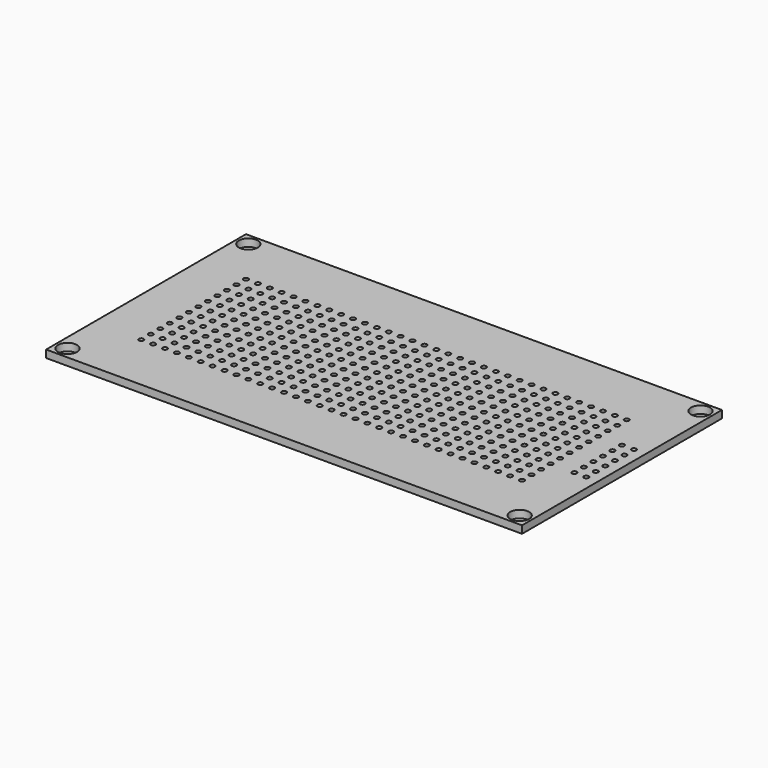
from build123d import *

# Parameters (mm, degrees)
F0_W     = 101.6
F0_H     = 53.34
F0_R     = 2.032
F0_R_2   = 0.508
F1_DEPTH = 1.6


with BuildPart() as f1:
    # F0 (on Top) → F1 (new body)
    with BuildSketch(Plane.XY):
        Rectangle(F0_W, F0_H)
        with Locations((-48.26, -24.13)):
            Circle(F0_R, mode=Mode.SUBTRACT)
        with Locations((-40.64, -13.97)):
            Circle(F0_R_2, mode=Mode.SUBTRACT)
        with Locations((-38.1, -13.97)):
            Circle(F0_R_2, mode=Mode.SUBTRACT)
        with Locations((-35.56, -13.97)):
            Circle(F0_R_2, mode=Mode.SUBTRACT)
        with Locations((-33.02, -13.97)):
            Circle(F0_R_2, mode=Mode.SUBTRACT)
        with Locations((-30.48, -13.97)):
            Circle(F0_R_2, mode=Mode.SUBTRACT)
        with Locations((-27.94, -13.97)):
            Circle(F0_R_2, mode=Mode.SUBTRACT)
        with Locations((-25.4, -13.97)):
            Circle(F0_R_2, mode=Mode.SUBTRACT)
        with Locations((-22.86, -13.97)):
            Circle(F0_R_2, mode=Mode.SUBTRACT)
        with Locations((-20.32, -13.97)):
            Circle(F0_R_2, mode=Mode.SUBTRACT)
        with Locations((-17.78, -13.97)):
            Circle(F0_R_2, mode=Mode.SUBTRACT)
        with Locations((-15.24, -13.97)):
            Circle(F0_R_2, mode=Mode.SUBTRACT)
        with Locations((-12.7, -13.97)):
            Circle(F0_R_2, mode=Mode.SUBTRACT)
        with Locations((-10.16, -13.97)):
            Circle(F0_R_2, mode=Mode.SUBTRACT)
        with Locations((-7.62, -13.97)):
            Circle(F0_R_2, mode=Mode.SUBTRACT)
        with Locations((-5.08, -13.97)):
            Circle(F0_R_2, mode=Mode.SUBTRACT)
        with Locations((-2.54, -13.97)):
            Circle(F0_R_2, mode=Mode.SUBTRACT)
        with Locations((0, -13.97)):
            Circle(F0_R_2, mode=Mode.SUBTRACT)
        with Locations((-40.64, -11.43)):
            Circle(F0_R_2, mode=Mode.SUBTRACT)
        with Locations((-38.1, -11.43)):
            Circle(F0_R_2, mode=Mode.SUBTRACT)
        with Locations((-40.64, -8.89)):
            Circle(F0_R_2, mode=Mode.SUBTRACT)
        with Locations((-38.1, -8.89)):
            Circle(F0_R_2, mode=Mode.SUBTRACT)
        with Locations((-35.56, -11.43)):
            Circle(F0_R_2, mode=Mode.SUBTRACT)
        with Locations((-33.02, -11.43)):
            Circle(F0_R_2, mode=Mode.SUBTRACT)
        with Locations((-30.48, -11.43)):
            Circle(F0_R_2, mode=Mode.SUBTRACT)
        with Locations((-27.94, -11.43)):
            Circle(F0_R_2, mode=Mode.SUBTRACT)
        with Locations((-25.4, -11.43)):
            Circle(F0_R_2, mode=Mode.SUBTRACT)
        with Locations((-35.56, -8.89)):
            Circle(F0_R_2, mode=Mode.SUBTRACT)
        with Locations((-33.02, -8.89)):
            Circle(F0_R_2, mode=Mode.SUBTRACT)
        with Locations((-30.48, -8.89)):
            Circle(F0_R_2, mode=Mode.SUBTRACT)
        with Locations((-27.94, -8.89)):
            Circle(F0_R_2, mode=Mode.SUBTRACT)
        with Locations((-25.4, -8.89)):
            Circle(F0_R_2, mode=Mode.SUBTRACT)
        with Locations((-40.64, -6.35)):
            Circle(F0_R_2, mode=Mode.SUBTRACT)
        with Locations((-38.1, -6.35)):
            Circle(F0_R_2, mode=Mode.SUBTRACT)
        with Locations((-40.64, -3.81)):
            Circle(F0_R_2, mode=Mode.SUBTRACT)
        with Locations((-38.1, -3.81)):
            Circle(F0_R_2, mode=Mode.SUBTRACT)
        with Locations((-40.64, -1.27)):
            Circle(F0_R_2, mode=Mode.SUBTRACT)
        with Locations((-38.1, -1.27)):
            Circle(F0_R_2, mode=Mode.SUBTRACT)
        with Locations((-35.56, -6.35)):
            Circle(F0_R_2, mode=Mode.SUBTRACT)
        with Locations((-33.02, -6.35)):
            Circle(F0_R_2, mode=Mode.SUBTRACT)
        with Locations((-35.56, -3.81)):
            Circle(F0_R_2, mode=Mode.SUBTRACT)
        with Locations((-33.02, -3.81)):
            Circle(F0_R_2, mode=Mode.SUBTRACT)
        with Locations((-30.48, -6.35)):
            Circle(F0_R_2, mode=Mode.SUBTRACT)
        with Locations((-27.94, -6.35)):
            Circle(F0_R_2, mode=Mode.SUBTRACT)
        with Locations((-25.4, -6.35)):
            Circle(F0_R_2, mode=Mode.SUBTRACT)
        with Locations((-30.48, -3.81)):
            Circle(F0_R_2, mode=Mode.SUBTRACT)
        with Locations((-27.94, -3.81)):
            Circle(F0_R_2, mode=Mode.SUBTRACT)
        with Locations((-25.4, -3.81)):
            Circle(F0_R_2, mode=Mode.SUBTRACT)
        with Locations((-35.56, -1.27)):
            Circle(F0_R_2, mode=Mode.SUBTRACT)
        with Locations((-33.02, -1.27)):
            Circle(F0_R_2, mode=Mode.SUBTRACT)
        with Locations((-30.48, -1.27)):
            Circle(F0_R_2, mode=Mode.SUBTRACT)
        with Locations((-27.94, -1.27)):
            Circle(F0_R_2, mode=Mode.SUBTRACT)
        with Locations((-25.4, -1.27)):
            Circle(F0_R_2, mode=Mode.SUBTRACT)
        with Locations((-22.86, -11.43)):
            Circle(F0_R_2, mode=Mode.SUBTRACT)
        with Locations((-20.32, -11.43)):
            Circle(F0_R_2, mode=Mode.SUBTRACT)
        with Locations((-17.78, -11.43)):
            Circle(F0_R_2, mode=Mode.SUBTRACT)
        with Locations((-15.24, -11.43)):
            Circle(F0_R_2, mode=Mode.SUBTRACT)
        with Locations((-12.7, -11.43)):
            Circle(F0_R_2, mode=Mode.SUBTRACT)
        with Locations((-22.86, -8.89)):
            Circle(F0_R_2, mode=Mode.SUBTRACT)
        with Locations((-20.32, -8.89)):
            Circle(F0_R_2, mode=Mode.SUBTRACT)
        with Locations((-17.78, -8.89)):
            Circle(F0_R_2, mode=Mode.SUBTRACT)
        with Locations((-15.24, -8.89)):
            Circle(F0_R_2, mode=Mode.SUBTRACT)
        with Locations((-12.7, -8.89)):
            Circle(F0_R_2, mode=Mode.SUBTRACT)
        with Locations((-10.16, -11.43)):
            Circle(F0_R_2, mode=Mode.SUBTRACT)
        with Locations((-7.62, -11.43)):
            Circle(F0_R_2, mode=Mode.SUBTRACT)
        with Locations((-5.08, -11.43)):
            Circle(F0_R_2, mode=Mode.SUBTRACT)
        with Locations((-2.54, -11.43)):
            Circle(F0_R_2, mode=Mode.SUBTRACT)
        with Locations((0, -11.43)):
            Circle(F0_R_2, mode=Mode.SUBTRACT)
        with Locations((-10.16, -8.89)):
            Circle(F0_R_2, mode=Mode.SUBTRACT)
        with Locations((-7.62, -8.89)):
            Circle(F0_R_2, mode=Mode.SUBTRACT)
        with Locations((-5.08, -8.89)):
            Circle(F0_R_2, mode=Mode.SUBTRACT)
        with Locations((-2.54, -8.89)):
            Circle(F0_R_2, mode=Mode.SUBTRACT)
        with Locations((0, -8.89)):
            Circle(F0_R_2, mode=Mode.SUBTRACT)
        with Locations((-22.86, -6.35)):
            Circle(F0_R_2, mode=Mode.SUBTRACT)
        with Locations((-20.32, -6.35)):
            Circle(F0_R_2, mode=Mode.SUBTRACT)
        with Locations((-22.86, -3.81)):
            Circle(F0_R_2, mode=Mode.SUBTRACT)
        with Locations((-20.32, -3.81)):
            Circle(F0_R_2, mode=Mode.SUBTRACT)
        with Locations((-17.78, -6.35)):
            Circle(F0_R_2, mode=Mode.SUBTRACT)
        with Locations((-15.24, -6.35)):
            Circle(F0_R_2, mode=Mode.SUBTRACT)
        with Locations((-12.7, -6.35)):
            Circle(F0_R_2, mode=Mode.SUBTRACT)
        with Locations((-17.78, -3.81)):
            Circle(F0_R_2, mode=Mode.SUBTRACT)
        with Locations((-15.24, -3.81)):
            Circle(F0_R_2, mode=Mode.SUBTRACT)
        with Locations((-12.7, -3.81)):
            Circle(F0_R_2, mode=Mode.SUBTRACT)
        with Locations((-22.86, -1.27)):
            Circle(F0_R_2, mode=Mode.SUBTRACT)
        with Locations((-20.32, -1.27)):
            Circle(F0_R_2, mode=Mode.SUBTRACT)
        with Locations((-17.78, -1.27)):
            Circle(F0_R_2, mode=Mode.SUBTRACT)
        with Locations((-15.24, -1.27)):
            Circle(F0_R_2, mode=Mode.SUBTRACT)
        with Locations((-12.7, -1.27)):
            Circle(F0_R_2, mode=Mode.SUBTRACT)
        with Locations((-10.16, -6.35)):
            Circle(F0_R_2, mode=Mode.SUBTRACT)
        with Locations((-7.62, -6.35)):
            Circle(F0_R_2, mode=Mode.SUBTRACT)
        with Locations((-10.16, -3.81)):
            Circle(F0_R_2, mode=Mode.SUBTRACT)
        with Locations((-7.62, -3.81)):
            Circle(F0_R_2, mode=Mode.SUBTRACT)
        with Locations((-5.08, -6.35)):
            Circle(F0_R_2, mode=Mode.SUBTRACT)
        with Locations((-2.54, -6.35)):
            Circle(F0_R_2, mode=Mode.SUBTRACT)
        with Locations((0, -6.35)):
            Circle(F0_R_2, mode=Mode.SUBTRACT)
        with Locations((-5.08, -3.81)):
            Circle(F0_R_2, mode=Mode.SUBTRACT)
        with Locations((-2.54, -3.81)):
            Circle(F0_R_2, mode=Mode.SUBTRACT)
        with Locations((0, -3.81)):
            Circle(F0_R_2, mode=Mode.SUBTRACT)
        with Locations((-10.16, -1.27)):
            Circle(F0_R_2, mode=Mode.SUBTRACT)
        with Locations((-7.62, -1.27)):
            Circle(F0_R_2, mode=Mode.SUBTRACT)
        with Locations((-5.08, -1.27)):
            Circle(F0_R_2, mode=Mode.SUBTRACT)
        with Locations((-2.54, -1.27)):
            Circle(F0_R_2, mode=Mode.SUBTRACT)
        with Locations((0, -1.27)):
            Circle(F0_R_2, mode=Mode.SUBTRACT)
        with Locations((2.54, -13.97)):
            Circle(F0_R_2, mode=Mode.SUBTRACT)
        with Locations((5.08, -13.97)):
            Circle(F0_R_2, mode=Mode.SUBTRACT)
        with Locations((7.62, -13.97)):
            Circle(F0_R_2, mode=Mode.SUBTRACT)
        with Locations((10.16, -13.97)):
            Circle(F0_R_2, mode=Mode.SUBTRACT)
        with Locations((12.7, -13.97)):
            Circle(F0_R_2, mode=Mode.SUBTRACT)
        with Locations((15.24, -13.97)):
            Circle(F0_R_2, mode=Mode.SUBTRACT)
        with Locations((17.78, -13.97)):
            Circle(F0_R_2, mode=Mode.SUBTRACT)
        with Locations((20.32, -13.97)):
            Circle(F0_R_2, mode=Mode.SUBTRACT)
        with Locations((22.86, -13.97)):
            Circle(F0_R_2, mode=Mode.SUBTRACT)
        with Locations((25.4, -13.97)):
            Circle(F0_R_2, mode=Mode.SUBTRACT)
        with Locations((48.26, -24.13)):
            Circle(F0_R, mode=Mode.SUBTRACT)
        with Locations((27.94, -13.97)):
            Circle(F0_R_2, mode=Mode.SUBTRACT)
        with Locations((30.48, -13.97)):
            Circle(F0_R_2, mode=Mode.SUBTRACT)
        with Locations((33.02, -13.97)):
            Circle(F0_R_2, mode=Mode.SUBTRACT)
        with Locations((35.56, -13.97)):
            Circle(F0_R_2, mode=Mode.SUBTRACT)
        with Locations((38.1, -13.97)):
            Circle(F0_R_2, mode=Mode.SUBTRACT)
        with Locations((40.64, -13.97)):
            Circle(F0_R_2, mode=Mode.SUBTRACT)
        with Locations((2.54, -11.43)):
            Circle(F0_R_2, mode=Mode.SUBTRACT)
        with Locations((5.08, -11.43)):
            Circle(F0_R_2, mode=Mode.SUBTRACT)
        with Locations((7.62, -11.43)):
            Circle(F0_R_2, mode=Mode.SUBTRACT)
        with Locations((10.16, -11.43)):
            Circle(F0_R_2, mode=Mode.SUBTRACT)
        with Locations((2.54, -8.89)):
            Circle(F0_R_2, mode=Mode.SUBTRACT)
        with Locations((5.08, -8.89)):
            Circle(F0_R_2, mode=Mode.SUBTRACT)
        with Locations((7.62, -8.89)):
            Circle(F0_R_2, mode=Mode.SUBTRACT)
        with Locations((10.16, -8.89)):
            Circle(F0_R_2, mode=Mode.SUBTRACT)
        with Locations((12.7, -11.43)):
            Circle(F0_R_2, mode=Mode.SUBTRACT)
        with Locations((15.24, -11.43)):
            Circle(F0_R_2, mode=Mode.SUBTRACT)
        with Locations((17.78, -11.43)):
            Circle(F0_R_2, mode=Mode.SUBTRACT)
        with Locations((20.32, -11.43)):
            Circle(F0_R_2, mode=Mode.SUBTRACT)
        with Locations((22.86, -11.43)):
            Circle(F0_R_2, mode=Mode.SUBTRACT)
        with Locations((25.4, -11.43)):
            Circle(F0_R_2, mode=Mode.SUBTRACT)
        with Locations((12.7, -8.89)):
            Circle(F0_R_2, mode=Mode.SUBTRACT)
        with Locations((15.24, -8.89)):
            Circle(F0_R_2, mode=Mode.SUBTRACT)
        with Locations((17.78, -8.89)):
            Circle(F0_R_2, mode=Mode.SUBTRACT)
        with Locations((20.32, -8.89)):
            Circle(F0_R_2, mode=Mode.SUBTRACT)
        with Locations((22.86, -8.89)):
            Circle(F0_R_2, mode=Mode.SUBTRACT)
        with Locations((25.4, -8.89)):
            Circle(F0_R_2, mode=Mode.SUBTRACT)
        with Locations((2.54, -6.35)):
            Circle(F0_R_2, mode=Mode.SUBTRACT)
        with Locations((5.08, -6.35)):
            Circle(F0_R_2, mode=Mode.SUBTRACT)
        with Locations((2.54, -3.81)):
            Circle(F0_R_2, mode=Mode.SUBTRACT)
        with Locations((5.08, -3.81)):
            Circle(F0_R_2, mode=Mode.SUBTRACT)
        with Locations((7.62, -6.35)):
            Circle(F0_R_2, mode=Mode.SUBTRACT)
        with Locations((10.16, -6.35)):
            Circle(F0_R_2, mode=Mode.SUBTRACT)
        with Locations((7.62, -3.81)):
            Circle(F0_R_2, mode=Mode.SUBTRACT)
        with Locations((10.16, -3.81)):
            Circle(F0_R_2, mode=Mode.SUBTRACT)
        with Locations((2.54, -1.27)):
            Circle(F0_R_2, mode=Mode.SUBTRACT)
        with Locations((5.08, -1.27)):
            Circle(F0_R_2, mode=Mode.SUBTRACT)
        with Locations((7.62, -1.27)):
            Circle(F0_R_2, mode=Mode.SUBTRACT)
        with Locations((10.16, -1.27)):
            Circle(F0_R_2, mode=Mode.SUBTRACT)
        with Locations((12.7, -6.35)):
            Circle(F0_R_2, mode=Mode.SUBTRACT)
        with Locations((15.24, -6.35)):
            Circle(F0_R_2, mode=Mode.SUBTRACT)
        with Locations((17.78, -6.35)):
            Circle(F0_R_2, mode=Mode.SUBTRACT)
        with Locations((12.7, -3.81)):
            Circle(F0_R_2, mode=Mode.SUBTRACT)
        with Locations((15.24, -3.81)):
            Circle(F0_R_2, mode=Mode.SUBTRACT)
        with Locations((17.78, -3.81)):
            Circle(F0_R_2, mode=Mode.SUBTRACT)
        with Locations((20.32, -6.35)):
            Circle(F0_R_2, mode=Mode.SUBTRACT)
        with Locations((22.86, -6.35)):
            Circle(F0_R_2, mode=Mode.SUBTRACT)
        with Locations((25.4, -6.35)):
            Circle(F0_R_2, mode=Mode.SUBTRACT)
        with Locations((20.32, -3.81)):
            Circle(F0_R_2, mode=Mode.SUBTRACT)
        with Locations((22.86, -3.81)):
            Circle(F0_R_2, mode=Mode.SUBTRACT)
        with Locations((25.4, -3.81)):
            Circle(F0_R_2, mode=Mode.SUBTRACT)
        with Locations((12.7, -1.27)):
            Circle(F0_R_2, mode=Mode.SUBTRACT)
        with Locations((15.24, -1.27)):
            Circle(F0_R_2, mode=Mode.SUBTRACT)
        with Locations((17.78, -1.27)):
            Circle(F0_R_2, mode=Mode.SUBTRACT)
        with Locations((20.32, -1.27)):
            Circle(F0_R_2, mode=Mode.SUBTRACT)
        with Locations((22.86, -1.27)):
            Circle(F0_R_2, mode=Mode.SUBTRACT)
        with Locations((25.4, -1.27)):
            Circle(F0_R_2, mode=Mode.SUBTRACT)
        with Locations((27.94, -11.43)):
            Circle(F0_R_2, mode=Mode.SUBTRACT)
        with Locations((30.48, -11.43)):
            Circle(F0_R_2, mode=Mode.SUBTRACT)
        with Locations((33.02, -11.43)):
            Circle(F0_R_2, mode=Mode.SUBTRACT)
        with Locations((35.56, -11.43)):
            Circle(F0_R_2, mode=Mode.SUBTRACT)
        with Locations((27.94, -8.89)):
            Circle(F0_R_2, mode=Mode.SUBTRACT)
        with Locations((30.48, -8.89)):
            Circle(F0_R_2, mode=Mode.SUBTRACT)
        with Locations((33.02, -8.89)):
            Circle(F0_R_2, mode=Mode.SUBTRACT)
        with Locations((35.56, -8.89)):
            Circle(F0_R_2, mode=Mode.SUBTRACT)
        with Locations((38.1, -11.43)):
            Circle(F0_R_2, mode=Mode.SUBTRACT)
        with Locations((40.64, -11.43)):
            Circle(F0_R_2, mode=Mode.SUBTRACT)
        with Locations((38.1, -8.89)):
            Circle(F0_R_2, mode=Mode.SUBTRACT)
        with Locations((40.64, -8.89)):
            Circle(F0_R_2, mode=Mode.SUBTRACT)
        with Locations((27.94, -6.35)):
            Circle(F0_R_2, mode=Mode.SUBTRACT)
        with Locations((30.48, -6.35)):
            Circle(F0_R_2, mode=Mode.SUBTRACT)
        with Locations((27.94, -3.81)):
            Circle(F0_R_2, mode=Mode.SUBTRACT)
        with Locations((30.48, -3.81)):
            Circle(F0_R_2, mode=Mode.SUBTRACT)
        with Locations((33.02, -6.35)):
            Circle(F0_R_2, mode=Mode.SUBTRACT)
        with Locations((35.56, -6.35)):
            Circle(F0_R_2, mode=Mode.SUBTRACT)
        with Locations((33.02, -3.81)):
            Circle(F0_R_2, mode=Mode.SUBTRACT)
        with Locations((35.56, -3.81)):
            Circle(F0_R_2, mode=Mode.SUBTRACT)
        with Locations((27.94, -1.27)):
            Circle(F0_R_2, mode=Mode.SUBTRACT)
        with Locations((30.48, -1.27)):
            Circle(F0_R_2, mode=Mode.SUBTRACT)
        with Locations((33.02, -1.27)):
            Circle(F0_R_2, mode=Mode.SUBTRACT)
        with Locations((35.56, -1.27)):
            Circle(F0_R_2, mode=Mode.SUBTRACT)
        with Locations((38.1, -6.35)):
            Circle(F0_R_2, mode=Mode.SUBTRACT)
        with Locations((40.64, -6.35)):
            Circle(F0_R_2, mode=Mode.SUBTRACT)
        with Locations((38.1, -3.81)):
            Circle(F0_R_2, mode=Mode.SUBTRACT)
        with Locations((40.64, -3.81)):
            Circle(F0_R_2, mode=Mode.SUBTRACT)
        with Locations((45.72, -6.35)):
            Circle(F0_R_2, mode=Mode.SUBTRACT)
        with Locations((48.26, -6.35)):
            Circle(F0_R_2, mode=Mode.SUBTRACT)
        with Locations((45.72, -3.81)):
            Circle(F0_R_2, mode=Mode.SUBTRACT)
        with Locations((48.26, -3.81)):
            Circle(F0_R_2, mode=Mode.SUBTRACT)
        with Locations((38.1, -1.27)):
            Circle(F0_R_2, mode=Mode.SUBTRACT)
        with Locations((40.64, -1.27)):
            Circle(F0_R_2, mode=Mode.SUBTRACT)
        with Locations((45.72, -1.27)):
            Circle(F0_R_2, mode=Mode.SUBTRACT)
        with Locations((48.26, -1.27)):
            Circle(F0_R_2, mode=Mode.SUBTRACT)
        with Locations((-40.64, 1.27)):
            Circle(F0_R_2, mode=Mode.SUBTRACT)
        with Locations((-38.1, 1.27)):
            Circle(F0_R_2, mode=Mode.SUBTRACT)
        with Locations((-40.64, 3.81)):
            Circle(F0_R_2, mode=Mode.SUBTRACT)
        with Locations((-38.1, 3.81)):
            Circle(F0_R_2, mode=Mode.SUBTRACT)
        with Locations((-40.64, 6.35)):
            Circle(F0_R_2, mode=Mode.SUBTRACT)
        with Locations((-38.1, 6.35)):
            Circle(F0_R_2, mode=Mode.SUBTRACT)
        with Locations((-35.56, 1.27)):
            Circle(F0_R_2, mode=Mode.SUBTRACT)
        with Locations((-33.02, 1.27)):
            Circle(F0_R_2, mode=Mode.SUBTRACT)
        with Locations((-30.48, 1.27)):
            Circle(F0_R_2, mode=Mode.SUBTRACT)
        with Locations((-27.94, 1.27)):
            Circle(F0_R_2, mode=Mode.SUBTRACT)
        with Locations((-25.4, 1.27)):
            Circle(F0_R_2, mode=Mode.SUBTRACT)
        with Locations((-35.56, 3.81)):
            Circle(F0_R_2, mode=Mode.SUBTRACT)
        with Locations((-33.02, 3.81)):
            Circle(F0_R_2, mode=Mode.SUBTRACT)
        with Locations((-35.56, 6.35)):
            Circle(F0_R_2, mode=Mode.SUBTRACT)
        with Locations((-33.02, 6.35)):
            Circle(F0_R_2, mode=Mode.SUBTRACT)
        with Locations((-30.48, 3.81)):
            Circle(F0_R_2, mode=Mode.SUBTRACT)
        with Locations((-27.94, 3.81)):
            Circle(F0_R_2, mode=Mode.SUBTRACT)
        with Locations((-25.4, 3.81)):
            Circle(F0_R_2, mode=Mode.SUBTRACT)
        with Locations((-30.48, 6.35)):
            Circle(F0_R_2, mode=Mode.SUBTRACT)
        with Locations((-27.94, 6.35)):
            Circle(F0_R_2, mode=Mode.SUBTRACT)
        with Locations((-25.4, 6.35)):
            Circle(F0_R_2, mode=Mode.SUBTRACT)
        with Locations((-40.64, 8.89)):
            Circle(F0_R_2, mode=Mode.SUBTRACT)
        with Locations((-38.1, 8.89)):
            Circle(F0_R_2, mode=Mode.SUBTRACT)
        with Locations((-40.64, 11.43)):
            Circle(F0_R_2, mode=Mode.SUBTRACT)
        with Locations((-38.1, 11.43)):
            Circle(F0_R_2, mode=Mode.SUBTRACT)
        with Locations((-35.56, 8.89)):
            Circle(F0_R_2, mode=Mode.SUBTRACT)
        with Locations((-33.02, 8.89)):
            Circle(F0_R_2, mode=Mode.SUBTRACT)
        with Locations((-30.48, 8.89)):
            Circle(F0_R_2, mode=Mode.SUBTRACT)
        with Locations((-27.94, 8.89)):
            Circle(F0_R_2, mode=Mode.SUBTRACT)
        with Locations((-25.4, 8.89)):
            Circle(F0_R_2, mode=Mode.SUBTRACT)
        with Locations((-35.56, 11.43)):
            Circle(F0_R_2, mode=Mode.SUBTRACT)
        with Locations((-33.02, 11.43)):
            Circle(F0_R_2, mode=Mode.SUBTRACT)
        with Locations((-30.48, 11.43)):
            Circle(F0_R_2, mode=Mode.SUBTRACT)
        with Locations((-27.94, 11.43)):
            Circle(F0_R_2, mode=Mode.SUBTRACT)
        with Locations((-25.4, 11.43)):
            Circle(F0_R_2, mode=Mode.SUBTRACT)
        with Locations((-22.86, 1.27)):
            Circle(F0_R_2, mode=Mode.SUBTRACT)
        with Locations((-20.32, 1.27)):
            Circle(F0_R_2, mode=Mode.SUBTRACT)
        with Locations((-17.78, 1.27)):
            Circle(F0_R_2, mode=Mode.SUBTRACT)
        with Locations((-15.24, 1.27)):
            Circle(F0_R_2, mode=Mode.SUBTRACT)
        with Locations((-12.7, 1.27)):
            Circle(F0_R_2, mode=Mode.SUBTRACT)
        with Locations((-22.86, 3.81)):
            Circle(F0_R_2, mode=Mode.SUBTRACT)
        with Locations((-20.32, 3.81)):
            Circle(F0_R_2, mode=Mode.SUBTRACT)
        with Locations((-22.86, 6.35)):
            Circle(F0_R_2, mode=Mode.SUBTRACT)
        with Locations((-20.32, 6.35)):
            Circle(F0_R_2, mode=Mode.SUBTRACT)
        with Locations((-17.78, 3.81)):
            Circle(F0_R_2, mode=Mode.SUBTRACT)
        with Locations((-15.24, 3.81)):
            Circle(F0_R_2, mode=Mode.SUBTRACT)
        with Locations((-12.7, 3.81)):
            Circle(F0_R_2, mode=Mode.SUBTRACT)
        with Locations((-17.78, 6.35)):
            Circle(F0_R_2, mode=Mode.SUBTRACT)
        with Locations((-15.24, 6.35)):
            Circle(F0_R_2, mode=Mode.SUBTRACT)
        with Locations((-12.7, 6.35)):
            Circle(F0_R_2, mode=Mode.SUBTRACT)
        with Locations((-10.16, 1.27)):
            Circle(F0_R_2, mode=Mode.SUBTRACT)
        with Locations((-7.62, 1.27)):
            Circle(F0_R_2, mode=Mode.SUBTRACT)
        with Locations((-5.08, 1.27)):
            Circle(F0_R_2, mode=Mode.SUBTRACT)
        with Locations((-2.54, 1.27)):
            Circle(F0_R_2, mode=Mode.SUBTRACT)
        with Locations((0, 1.27)):
            Circle(F0_R_2, mode=Mode.SUBTRACT)
        with Locations((-10.16, 3.81)):
            Circle(F0_R_2, mode=Mode.SUBTRACT)
        with Locations((-7.62, 3.81)):
            Circle(F0_R_2, mode=Mode.SUBTRACT)
        with Locations((-10.16, 6.35)):
            Circle(F0_R_2, mode=Mode.SUBTRACT)
        with Locations((-7.62, 6.35)):
            Circle(F0_R_2, mode=Mode.SUBTRACT)
        with Locations((-5.08, 3.81)):
            Circle(F0_R_2, mode=Mode.SUBTRACT)
        with Locations((-2.54, 3.81)):
            Circle(F0_R_2, mode=Mode.SUBTRACT)
        with Locations((0, 3.81)):
            Circle(F0_R_2, mode=Mode.SUBTRACT)
        with Locations((-5.08, 6.35)):
            Circle(F0_R_2, mode=Mode.SUBTRACT)
        with Locations((-2.54, 6.35)):
            Circle(F0_R_2, mode=Mode.SUBTRACT)
        with Locations((0, 6.35)):
            Circle(F0_R_2, mode=Mode.SUBTRACT)
        with Locations((-22.86, 8.89)):
            Circle(F0_R_2, mode=Mode.SUBTRACT)
        with Locations((-20.32, 8.89)):
            Circle(F0_R_2, mode=Mode.SUBTRACT)
        with Locations((-17.78, 8.89)):
            Circle(F0_R_2, mode=Mode.SUBTRACT)
        with Locations((-15.24, 8.89)):
            Circle(F0_R_2, mode=Mode.SUBTRACT)
        with Locations((-12.7, 8.89)):
            Circle(F0_R_2, mode=Mode.SUBTRACT)
        with Locations((-22.86, 11.43)):
            Circle(F0_R_2, mode=Mode.SUBTRACT)
        with Locations((-20.32, 11.43)):
            Circle(F0_R_2, mode=Mode.SUBTRACT)
        with Locations((-17.78, 11.43)):
            Circle(F0_R_2, mode=Mode.SUBTRACT)
        with Locations((-15.24, 11.43)):
            Circle(F0_R_2, mode=Mode.SUBTRACT)
        with Locations((-12.7, 11.43)):
            Circle(F0_R_2, mode=Mode.SUBTRACT)
        with Locations((-10.16, 8.89)):
            Circle(F0_R_2, mode=Mode.SUBTRACT)
        with Locations((-7.62, 8.89)):
            Circle(F0_R_2, mode=Mode.SUBTRACT)
        with Locations((-5.08, 8.89)):
            Circle(F0_R_2, mode=Mode.SUBTRACT)
        with Locations((-2.54, 8.89)):
            Circle(F0_R_2, mode=Mode.SUBTRACT)
        with Locations((0, 8.89)):
            Circle(F0_R_2, mode=Mode.SUBTRACT)
        with Locations((-10.16, 11.43)):
            Circle(F0_R_2, mode=Mode.SUBTRACT)
        with Locations((-7.62, 11.43)):
            Circle(F0_R_2, mode=Mode.SUBTRACT)
        with Locations((-5.08, 11.43)):
            Circle(F0_R_2, mode=Mode.SUBTRACT)
        with Locations((-2.54, 11.43)):
            Circle(F0_R_2, mode=Mode.SUBTRACT)
        with Locations((0, 11.43)):
            Circle(F0_R_2, mode=Mode.SUBTRACT)
        with Locations((-40.64, 13.97)):
            Circle(F0_R_2, mode=Mode.SUBTRACT)
        with Locations((-38.1, 13.97)):
            Circle(F0_R_2, mode=Mode.SUBTRACT)
        with Locations((-35.56, 13.97)):
            Circle(F0_R_2, mode=Mode.SUBTRACT)
        with Locations((-33.02, 13.97)):
            Circle(F0_R_2, mode=Mode.SUBTRACT)
        with Locations((-30.48, 13.97)):
            Circle(F0_R_2, mode=Mode.SUBTRACT)
        with Locations((-27.94, 13.97)):
            Circle(F0_R_2, mode=Mode.SUBTRACT)
        with Locations((-25.4, 13.97)):
            Circle(F0_R_2, mode=Mode.SUBTRACT)
        with Locations((-48.26, 24.13)):
            Circle(F0_R, mode=Mode.SUBTRACT)
        with Locations((-22.86, 13.97)):
            Circle(F0_R_2, mode=Mode.SUBTRACT)
        with Locations((-20.32, 13.97)):
            Circle(F0_R_2, mode=Mode.SUBTRACT)
        with Locations((-17.78, 13.97)):
            Circle(F0_R_2, mode=Mode.SUBTRACT)
        with Locations((-15.24, 13.97)):
            Circle(F0_R_2, mode=Mode.SUBTRACT)
        with Locations((-12.7, 13.97)):
            Circle(F0_R_2, mode=Mode.SUBTRACT)
        with Locations((-10.16, 13.97)):
            Circle(F0_R_2, mode=Mode.SUBTRACT)
        with Locations((-7.62, 13.97)):
            Circle(F0_R_2, mode=Mode.SUBTRACT)
        with Locations((-5.08, 13.97)):
            Circle(F0_R_2, mode=Mode.SUBTRACT)
        with Locations((-2.54, 13.97)):
            Circle(F0_R_2, mode=Mode.SUBTRACT)
        with Locations((0, 13.97)):
            Circle(F0_R_2, mode=Mode.SUBTRACT)
        with Locations((2.54, 1.27)):
            Circle(F0_R_2, mode=Mode.SUBTRACT)
        with Locations((5.08, 1.27)):
            Circle(F0_R_2, mode=Mode.SUBTRACT)
        with Locations((7.62, 1.27)):
            Circle(F0_R_2, mode=Mode.SUBTRACT)
        with Locations((10.16, 1.27)):
            Circle(F0_R_2, mode=Mode.SUBTRACT)
        with Locations((2.54, 3.81)):
            Circle(F0_R_2, mode=Mode.SUBTRACT)
        with Locations((5.08, 3.81)):
            Circle(F0_R_2, mode=Mode.SUBTRACT)
        with Locations((2.54, 6.35)):
            Circle(F0_R_2, mode=Mode.SUBTRACT)
        with Locations((5.08, 6.35)):
            Circle(F0_R_2, mode=Mode.SUBTRACT)
        with Locations((7.62, 3.81)):
            Circle(F0_R_2, mode=Mode.SUBTRACT)
        with Locations((10.16, 3.81)):
            Circle(F0_R_2, mode=Mode.SUBTRACT)
        with Locations((7.62, 6.35)):
            Circle(F0_R_2, mode=Mode.SUBTRACT)
        with Locations((10.16, 6.35)):
            Circle(F0_R_2, mode=Mode.SUBTRACT)
        with Locations((12.7, 1.27)):
            Circle(F0_R_2, mode=Mode.SUBTRACT)
        with Locations((15.24, 1.27)):
            Circle(F0_R_2, mode=Mode.SUBTRACT)
        with Locations((17.78, 1.27)):
            Circle(F0_R_2, mode=Mode.SUBTRACT)
        with Locations((20.32, 1.27)):
            Circle(F0_R_2, mode=Mode.SUBTRACT)
        with Locations((22.86, 1.27)):
            Circle(F0_R_2, mode=Mode.SUBTRACT)
        with Locations((25.4, 1.27)):
            Circle(F0_R_2, mode=Mode.SUBTRACT)
        with Locations((12.7, 3.81)):
            Circle(F0_R_2, mode=Mode.SUBTRACT)
        with Locations((15.24, 3.81)):
            Circle(F0_R_2, mode=Mode.SUBTRACT)
        with Locations((17.78, 3.81)):
            Circle(F0_R_2, mode=Mode.SUBTRACT)
        with Locations((12.7, 6.35)):
            Circle(F0_R_2, mode=Mode.SUBTRACT)
        with Locations((15.24, 6.35)):
            Circle(F0_R_2, mode=Mode.SUBTRACT)
        with Locations((17.78, 6.35)):
            Circle(F0_R_2, mode=Mode.SUBTRACT)
        with Locations((20.32, 3.81)):
            Circle(F0_R_2, mode=Mode.SUBTRACT)
        with Locations((22.86, 3.81)):
            Circle(F0_R_2, mode=Mode.SUBTRACT)
        with Locations((25.4, 3.81)):
            Circle(F0_R_2, mode=Mode.SUBTRACT)
        with Locations((20.32, 6.35)):
            Circle(F0_R_2, mode=Mode.SUBTRACT)
        with Locations((22.86, 6.35)):
            Circle(F0_R_2, mode=Mode.SUBTRACT)
        with Locations((25.4, 6.35)):
            Circle(F0_R_2, mode=Mode.SUBTRACT)
        with Locations((2.54, 8.89)):
            Circle(F0_R_2, mode=Mode.SUBTRACT)
        with Locations((5.08, 8.89)):
            Circle(F0_R_2, mode=Mode.SUBTRACT)
        with Locations((7.62, 8.89)):
            Circle(F0_R_2, mode=Mode.SUBTRACT)
        with Locations((10.16, 8.89)):
            Circle(F0_R_2, mode=Mode.SUBTRACT)
        with Locations((2.54, 11.43)):
            Circle(F0_R_2, mode=Mode.SUBTRACT)
        with Locations((5.08, 11.43)):
            Circle(F0_R_2, mode=Mode.SUBTRACT)
        with Locations((7.62, 11.43)):
            Circle(F0_R_2, mode=Mode.SUBTRACT)
        with Locations((10.16, 11.43)):
            Circle(F0_R_2, mode=Mode.SUBTRACT)
        with Locations((12.7, 8.89)):
            Circle(F0_R_2, mode=Mode.SUBTRACT)
        with Locations((15.24, 8.89)):
            Circle(F0_R_2, mode=Mode.SUBTRACT)
        with Locations((17.78, 8.89)):
            Circle(F0_R_2, mode=Mode.SUBTRACT)
        with Locations((20.32, 8.89)):
            Circle(F0_R_2, mode=Mode.SUBTRACT)
        with Locations((22.86, 8.89)):
            Circle(F0_R_2, mode=Mode.SUBTRACT)
        with Locations((25.4, 8.89)):
            Circle(F0_R_2, mode=Mode.SUBTRACT)
        with Locations((12.7, 11.43)):
            Circle(F0_R_2, mode=Mode.SUBTRACT)
        with Locations((15.24, 11.43)):
            Circle(F0_R_2, mode=Mode.SUBTRACT)
        with Locations((17.78, 11.43)):
            Circle(F0_R_2, mode=Mode.SUBTRACT)
        with Locations((20.32, 11.43)):
            Circle(F0_R_2, mode=Mode.SUBTRACT)
        with Locations((22.86, 11.43)):
            Circle(F0_R_2, mode=Mode.SUBTRACT)
        with Locations((25.4, 11.43)):
            Circle(F0_R_2, mode=Mode.SUBTRACT)
        with Locations((27.94, 1.27)):
            Circle(F0_R_2, mode=Mode.SUBTRACT)
        with Locations((30.48, 1.27)):
            Circle(F0_R_2, mode=Mode.SUBTRACT)
        with Locations((33.02, 1.27)):
            Circle(F0_R_2, mode=Mode.SUBTRACT)
        with Locations((35.56, 1.27)):
            Circle(F0_R_2, mode=Mode.SUBTRACT)
        with Locations((27.94, 3.81)):
            Circle(F0_R_2, mode=Mode.SUBTRACT)
        with Locations((30.48, 3.81)):
            Circle(F0_R_2, mode=Mode.SUBTRACT)
        with Locations((27.94, 6.35)):
            Circle(F0_R_2, mode=Mode.SUBTRACT)
        with Locations((30.48, 6.35)):
            Circle(F0_R_2, mode=Mode.SUBTRACT)
        with Locations((33.02, 3.81)):
            Circle(F0_R_2, mode=Mode.SUBTRACT)
        with Locations((35.56, 3.81)):
            Circle(F0_R_2, mode=Mode.SUBTRACT)
        with Locations((33.02, 6.35)):
            Circle(F0_R_2, mode=Mode.SUBTRACT)
        with Locations((35.56, 6.35)):
            Circle(F0_R_2, mode=Mode.SUBTRACT)
        with Locations((38.1, 1.27)):
            Circle(F0_R_2, mode=Mode.SUBTRACT)
        with Locations((40.64, 1.27)):
            Circle(F0_R_2, mode=Mode.SUBTRACT)
        with Locations((45.72, 1.27)):
            Circle(F0_R_2, mode=Mode.SUBTRACT)
        with Locations((48.26, 1.27)):
            Circle(F0_R_2, mode=Mode.SUBTRACT)
        with Locations((38.1, 3.81)):
            Circle(F0_R_2, mode=Mode.SUBTRACT)
        with Locations((40.64, 3.81)):
            Circle(F0_R_2, mode=Mode.SUBTRACT)
        with Locations((38.1, 6.35)):
            Circle(F0_R_2, mode=Mode.SUBTRACT)
        with Locations((40.64, 6.35)):
            Circle(F0_R_2, mode=Mode.SUBTRACT)
        with Locations((45.72, 3.81)):
            Circle(F0_R_2, mode=Mode.SUBTRACT)
        with Locations((48.26, 3.81)):
            Circle(F0_R_2, mode=Mode.SUBTRACT)
        with Locations((45.72, 6.35)):
            Circle(F0_R_2, mode=Mode.SUBTRACT)
        with Locations((48.26, 6.35)):
            Circle(F0_R_2, mode=Mode.SUBTRACT)
        with Locations((27.94, 8.89)):
            Circle(F0_R_2, mode=Mode.SUBTRACT)
        with Locations((30.48, 8.89)):
            Circle(F0_R_2, mode=Mode.SUBTRACT)
        with Locations((33.02, 8.89)):
            Circle(F0_R_2, mode=Mode.SUBTRACT)
        with Locations((35.56, 8.89)):
            Circle(F0_R_2, mode=Mode.SUBTRACT)
        with Locations((27.94, 11.43)):
            Circle(F0_R_2, mode=Mode.SUBTRACT)
        with Locations((30.48, 11.43)):
            Circle(F0_R_2, mode=Mode.SUBTRACT)
        with Locations((33.02, 11.43)):
            Circle(F0_R_2, mode=Mode.SUBTRACT)
        with Locations((35.56, 11.43)):
            Circle(F0_R_2, mode=Mode.SUBTRACT)
        with Locations((38.1, 8.89)):
            Circle(F0_R_2, mode=Mode.SUBTRACT)
        with Locations((40.64, 8.89)):
            Circle(F0_R_2, mode=Mode.SUBTRACT)
        with Locations((38.1, 11.43)):
            Circle(F0_R_2, mode=Mode.SUBTRACT)
        with Locations((40.64, 11.43)):
            Circle(F0_R_2, mode=Mode.SUBTRACT)
        with Locations((2.54, 13.97)):
            Circle(F0_R_2, mode=Mode.SUBTRACT)
        with Locations((5.08, 13.97)):
            Circle(F0_R_2, mode=Mode.SUBTRACT)
        with Locations((7.62, 13.97)):
            Circle(F0_R_2, mode=Mode.SUBTRACT)
        with Locations((10.16, 13.97)):
            Circle(F0_R_2, mode=Mode.SUBTRACT)
        with Locations((12.7, 13.97)):
            Circle(F0_R_2, mode=Mode.SUBTRACT)
        with Locations((15.24, 13.97)):
            Circle(F0_R_2, mode=Mode.SUBTRACT)
        with Locations((17.78, 13.97)):
            Circle(F0_R_2, mode=Mode.SUBTRACT)
        with Locations((20.32, 13.97)):
            Circle(F0_R_2, mode=Mode.SUBTRACT)
        with Locations((22.86, 13.97)):
            Circle(F0_R_2, mode=Mode.SUBTRACT)
        with Locations((25.4, 13.97)):
            Circle(F0_R_2, mode=Mode.SUBTRACT)
        with Locations((27.94, 13.97)):
            Circle(F0_R_2, mode=Mode.SUBTRACT)
        with Locations((30.48, 13.97)):
            Circle(F0_R_2, mode=Mode.SUBTRACT)
        with Locations((33.02, 13.97)):
            Circle(F0_R_2, mode=Mode.SUBTRACT)
        with Locations((35.56, 13.97)):
            Circle(F0_R_2, mode=Mode.SUBTRACT)
        with Locations((38.1, 13.97)):
            Circle(F0_R_2, mode=Mode.SUBTRACT)
        with Locations((40.64, 13.97)):
            Circle(F0_R_2, mode=Mode.SUBTRACT)
        with Locations((48.26, 24.13)):
            Circle(F0_R, mode=Mode.SUBTRACT)
    extrude(amount=F1_DEPTH)


solid = f1.part
